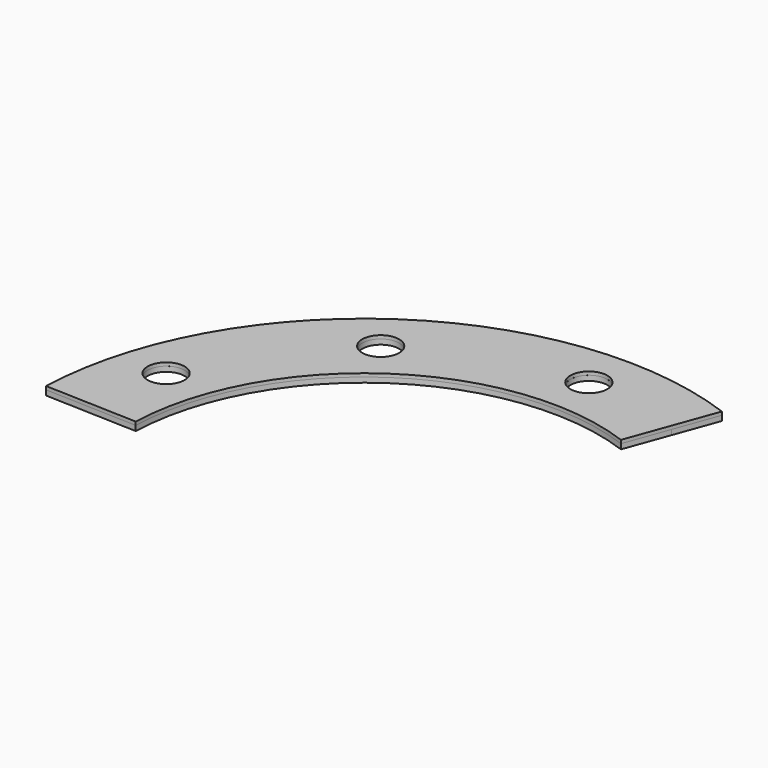
from build123d import *

# Parameters (mm, degrees)
F1_DEPTH = 3
F2_D     = 22
F3_R     = 14.0502268528
F4_DEPTH = 0.5
F5_DEPTH = 0.5
F6_R     = 11
F7_DEPTH = 2
F8_D     = 22


with BuildPart() as f1:
    # F0 (on Top) → F1 (new body)
    with BuildSketch(Plane.XY):
        with BuildLine():
            Line((47.8828200656, 131.55696691), (57.288374007, 157.3985139816))
            ThreePointArc((57.288374007, 157.3985139816), (-93.6648113313, 138.863793403), (-167.3979635257, 5.8456656977))
            Line((-167.3979635257, 5.8456656977), (-139.9147157827, 4.8859295384))
            ThreePointArc((-139.9147157827, 4.8859295384), (-78.2870064859, 116.0652601577), (47.8828200656, 131.55696691))
        make_face()
        with BuildLine():
            Line((57.288374007, 157.3985139816), (66.6939279485, 183.2400610533))
            ThreePointArc((66.6939279485, 183.2400610533), (-109.0426161768, 161.6623266482), (-194.8812112687, 6.805401857))
            Line((-194.8812112687, 6.805401857), (-167.3979635257, 5.8456656977))
            ThreePointArc((-167.3979635257, 5.8456656977), (-93.6648113313, 138.863793403), (57.288374007, 157.3985139816))
        make_face()
    extrude(amount=F1_DEPTH)

    # F2 (through all)
    with Locations(Plane(origin=(0, 0, 0), x_dir=(1, 0, 0), z_dir=(0, 0, -1))):
        with Locations((0, -167.5), (-98.454029759, -135.5103465578), (-159.3019664794, -51.7603465578)):
            Hole(F2_D / 2)

    # F3 (on face) → F4 (cut)
    with BuildSketch(Plane.XY.offset(3)):
        with BuildLine():
            Line((-130.6667327881, 66.3785785437), (-97.1204983456, 111.8961327317))
            ThreePointArc((-97.1204983456, 111.8961327317), (-98.3811733807, 159.1620714971), (-99.9330161444, 111.9047963645))
            Line((-99.9330161444, 111.9047963645), (-133.4856301546, 66.3785859942))
            Line((-133.4856301546, 66.3785859942), (-144.0900415182, 36.7130823433))
            Line((-144.0900415182, 36.7130823433), (-145.4323679209, 24.4978740811))
            Line((-145.4323679209, 24.4978740811), (-155.7683050632, 24.4978740811))
            Line((-155.7683050632, 24.4978740811), (-156.8421721458, 10.1349400356))
            Line((-156.8421721458, 10.1349400356), (-143.4188783169, 10.1349400356))
            Line((-143.4188783169, 10.1349400356), (-141.4053738117, 36.0419154167))
            Line((-141.4053738117, 36.0419154167), (-130.6667327881, 66.3785785437))
        make_face()
        with BuildLine():
            Line((-103.796297282, 114.0733726617), (-102.7086136493, 115.4084704753))
            ThreePointArc((-102.7086136493, 115.4084704753), (-93.637046648, 155.4849198905), (-103.829618412, 115.6788072139))
            Line((-103.829618412, 115.6788072139), (-105.0485776566, 114.4249105857))
            ThreePointArc((-105.0485776566, 114.4249105857), (-92.4830344212, 156.7807693741), (-103.796297282, 114.0733726617))
        make_face(mode=Mode.SUBTRACT)
        with BuildLine():
            Line((-105.7998637189, 118.5376641197), (-103.8133112073, 120.5193363676))
            ThreePointArc((-103.8133112073, 120.5193363676), (-92.6354913449, 150.3291486311), (-104.7263022811, 120.8778183562))
            Line((-104.7263022811, 120.8778183562), (-106.6683445703, 118.9405469847))
            ThreePointArc((-106.6683445703, 118.9405469847), (-90.6713479528, 152.287208291), (-105.7998637189, 118.5376641197))
        make_face(mode=Mode.SUBTRACT)
        with Locations((-98.454029759, 135.5103465578)):
            Circle(F3_R, mode=Mode.SUBTRACT)
    extrude(amount=-F4_DEPTH, mode=Mode.SUBTRACT)


with BuildPart() as f5:
    # F5 (new): a face of the model
    f5_faces = [f1.part.faces().sort_by_distance(p)[0] for p in [
        (-137.6397122741, 51.7779138319, 2.5),
    ]]
    extrude(f5_faces, amount=F5_DEPTH)


with BuildPart() as f7:
    # F6 (on face) → F7 (new body)
    with BuildSketch(Plane.XY.offset(3)):
        with BuildLine():
            Line((-194.8812112687, 6.805401857), (-139.9147157827, 4.8859295384))
            ThreePointArc((-139.9147157827, 4.8859295384), (-78.2870064859, 116.0652601577), (47.8828200656, 131.55696691))
            Line((47.8828200656, 131.55696691), (66.6939279485, 183.2400610533))
            ThreePointArc((66.6939279485, 183.2400610533), (-109.0426161768, 161.6623266482), (-194.8812112687, 6.805401857))
        make_face()
        with Locations((-159.3019664794, 51.7603465578)):
            Circle(F6_R, mode=Mode.SUBTRACT)
        with BuildLine():
            Line((-97.1204983456, 111.8961327317), (-130.6667327881, 66.3785785437))
            Line((-130.6667327881, 66.3785785437), (-141.4053738117, 36.0419154167))
            Line((-141.4053738117, 36.0419154167), (-143.4188783169, 10.1349400356))
            Line((-143.4188783169, 10.1349400356), (-156.8421721458, 10.1349400356))
            Line((-156.8421721458, 10.1349400356), (-155.7683050632, 24.4978740811))
            Line((-155.7683050632, 24.4978740811), (-145.4323679209, 24.4978740811))
            Line((-145.4323679209, 24.4978740811), (-144.0900415182, 36.7130823433))
            Line((-144.0900415182, 36.7130823433), (-133.4856301546, 66.3785859942))
            Line((-133.4856301546, 66.3785859942), (-99.9330161444, 111.9047963645))
            ThreePointArc((-99.9330161444, 111.9047963645), (-98.3811733807, 159.1620714971), (-97.1204983456, 111.8961327317))
        make_face(mode=Mode.SUBTRACT)
        with Locations((0, 167.5)):
            Circle(F6_R, mode=Mode.SUBTRACT)
        with BuildLine():
            Line((-141.4053738117, 36.0419154167), (-130.6667327881, 66.3785785437))
            Line((-130.6667327881, 66.3785785437), (-97.1204983456, 111.8961327317))
            ThreePointArc((-97.1204983456, 111.8961327317), (-98.3811733807, 159.1620714971), (-99.9330161444, 111.9047963645))
            Line((-99.9330161444, 111.9047963645), (-133.4856301546, 66.3785859942))
            Line((-133.4856301546, 66.3785859942), (-144.0900415182, 36.7130823433))
            Line((-144.0900415182, 36.7130823433), (-145.4323679209, 24.4978740811))
            Line((-145.4323679209, 24.4978740811), (-155.7683050632, 24.4978740811))
            Line((-155.7683050632, 24.4978740811), (-156.8421721458, 10.1349400356))
            Line((-156.8421721458, 10.1349400356), (-143.4188783169, 10.1349400356))
            Line((-143.4188783169, 10.1349400356), (-141.4053738117, 36.0419154167))
        make_face()
    extrude(amount=F7_DEPTH)

    # F8 (through all)
    with Locations(Plane(origin=(0, 0, 0), x_dir=(1, 0, 0), z_dir=(0, 0, -1))):
        with Locations((-98.454029759, -135.5103465578)):
            Hole(F8_D / 2)


solid = Compound([f1.part, f5.part, f7.part])
